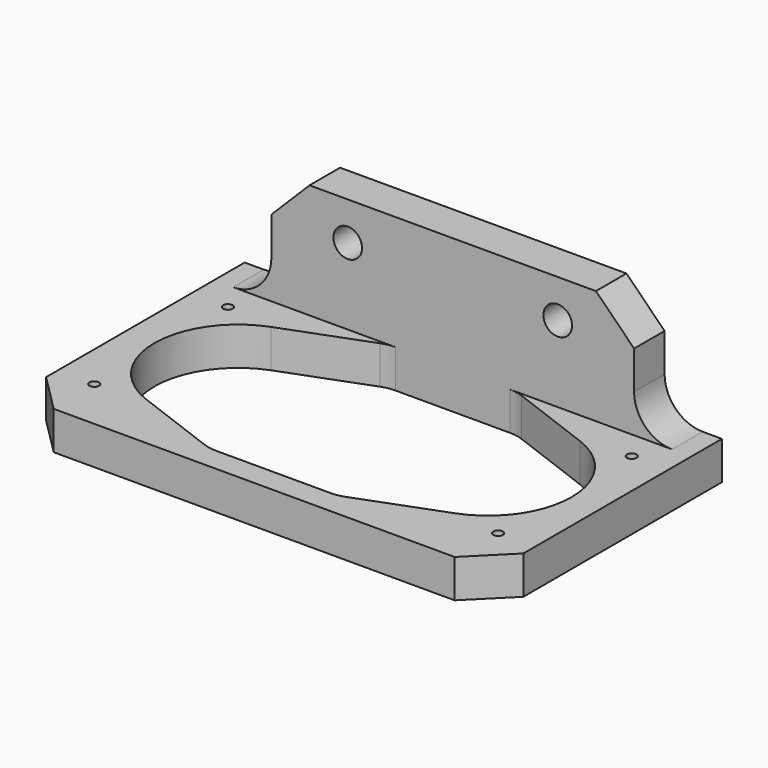
from build123d import *

# Parameters (mm, degrees)
SKETCH_R             = 1.5
PAD_DEPTH            = 4
SKETCH001_R          = 0.5
PAD001_DEPTH         = 4
FILLET_R             = 4
CHAMFER_SIZE         = 4
BODY_PLACEMENT_ANGLE = 90


with BuildPart() as part:
    # Sketch → Pad (new body)
    with BuildSketch(Plane.XY):
        Polygon((-15, 4), (15, 4), (19, 0), (19, -8), (-19, -8), (-19, 0), align=None)
        with Locations((-11, 0)):
            Circle(SKETCH_R, mode=Mode.SUBTRACT)
        with Locations((11, 0)):
            Circle(SKETCH_R, mode=Mode.SUBTRACT)
    extrude(amount=PAD_DEPTH)

    # Sketch001 (on Face2 of Pad) → Pad001 (join)
    with BuildSketch(Plane.XZ.offset(8)):
        Polygon((-25, 30), (25, 30), (25, 0), (0, 0), (-25, 0), align=None)
        with Locations((-21.15, 24.5)):
            Circle(SKETCH001_R, mode=Mode.SUBTRACT)
        with Locations((-21.15, 7)):
            Circle(SKETCH001_R, mode=Mode.SUBTRACT)
        with Locations((21.15, 7)):
            Circle(SKETCH001_R, mode=Mode.SUBTRACT)
        with Locations((21.15, 24.5)):
            Circle(SKETCH001_R, mode=Mode.SUBTRACT)
        with BuildLine():
            ThreePointArc((-16.184193, 23.938422), (-21.85, 15.75), (-16.184193, 7.561578))
            Line((-16.184193, 7.561578), (-7.409917, 4.256721))
            ThreePointArc((-7.409917, 4.256721), (-6.716549, 4.064704), (-6, 4))
            Line((-6, 4), (0, 4))
            Line((6, 4), (0, 4))
            ThreePointArc((6, 4), (6.716549, 4.064704), (7.409917, 4.256721))
            Line((7.409917, 4.256721), (16.184193, 7.561578))
            ThreePointArc((16.184193, 7.561578), (21.85, 15.75), (16.184193, 23.938422))
            Line((16.184193, 23.938422), (7.409917, 27.243279))
            ThreePointArc((7.409917, 27.243279), (6.716549, 27.435296), (6, 27.5))
            Line((0, 27.5), (6, 27.5))
            Line((-6, 27.5), (0, 27.5))
            ThreePointArc((-6, 27.5), (-6.716549, 27.435296), (-7.409917, 27.243279))
            Line((-16.184193, 23.938422), (-7.409917, 27.243279))
        make_face(mode=Mode.SUBTRACT)
    extrude(amount=PAD001_DEPTH)

    # Fillet
    fillet_edges = [part.edges().sort_by_distance(p)[0] for p in [
        (19, -8, 2),
        (-19, -8, 2),
    ]]
    fillet(fillet_edges, radius=FILLET_R)

    # Chamfer
    chamfer_edges = [part.edges().sort_by_distance(p)[0] for p in [
        (-25, -10, 30),
        (25, -10, 30),
    ]]
    chamfer(chamfer_edges, length=CHAMFER_SIZE)


with BuildPart() as part_1:
    # Body placement: moved
    add(part.part.rotate(Axis((0, 0, 0), (1, 0, 0)), BODY_PLACEMENT_ANGLE))


solid = part_1.part
